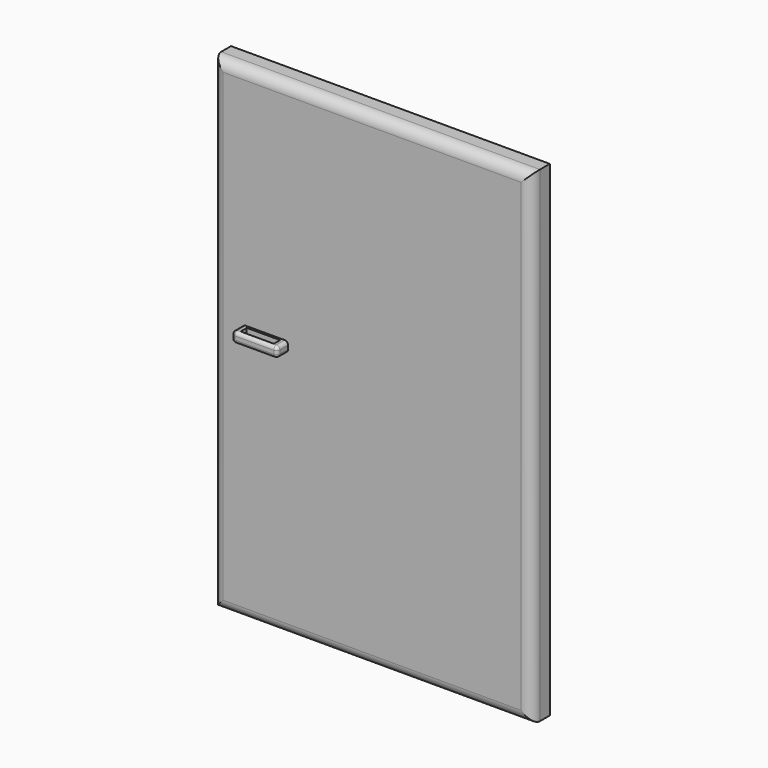
from build123d import *

# Parameters (mm, degrees)
F0_W     = 426.72
F0_H     = 650.148946
F1_DEPTH = 30.48
F2_R     = 13.981194
F3_W     = 61.12656
F3_H     = 13.886399
F4_DEPTH = 18.288
F5_W     = 44.737935
F5_H     = 10.388609
F6_DEPTH = 39.0144
F7_R     = 4.572


with BuildPart() as f1:
    # F0 (on Front) → F1 (new body)
    with BuildSketch(Plane.XZ):
        with Locations((-226.430792, -86.938575)):
            Rectangle(F0_W, F0_H)
    extrude(amount=F1_DEPTH)

    # F2
    f2_edges = [f1.edges().sort_by_distance(p)[0] for p in [
        (-439.790792, -30.48, -86.938575),
        (-226.430792, -30.48, 238.135898),
        (-13.070792, -30.48, -86.938575),
        (-226.430792, -30.48, -412.013048),
    ]]
    fillet(f2_edges, radius=F2_R)

    # F3 (on face) → F4 (join)
    with BuildSketch(Plane.XZ.offset(30.48)):
        with Locations((-369.549796, -71.611527)):
            Rectangle(F3_W, F3_H)
    extrude(amount=F4_DEPTH)

    # F5 (on face) → F6 (cut)
    with BuildSketch(Plane(origin=(0, 0, -78.554727), x_dir=(1, 0, 0), z_dir=(0, 0, -1))):
        with Locations((-369.519263, 38.791405)):
            Rectangle(F5_W, F5_H)
    extrude(amount=-F6_DEPTH, mode=Mode.SUBTRACT)

    # F7
    f7_edges = [f1.edges().sort_by_distance(p)[0] for p in [
        (-400.113076, -48.768, -71.611527),
        (-369.549796, -48.768, -64.668328),
        (-369.549796, -48.768, -78.554727),
        (-338.986516, -39.624, -64.668328),
        (-338.986516, -48.768, -71.611527),
        (-338.986516, -39.624, -78.554727),
        (-400.113076, -39.624, -78.554727),
        (-400.113076, -39.624, -64.668328),
    ]]
    fillet(f7_edges, radius=F7_R)


solid = f1.part
